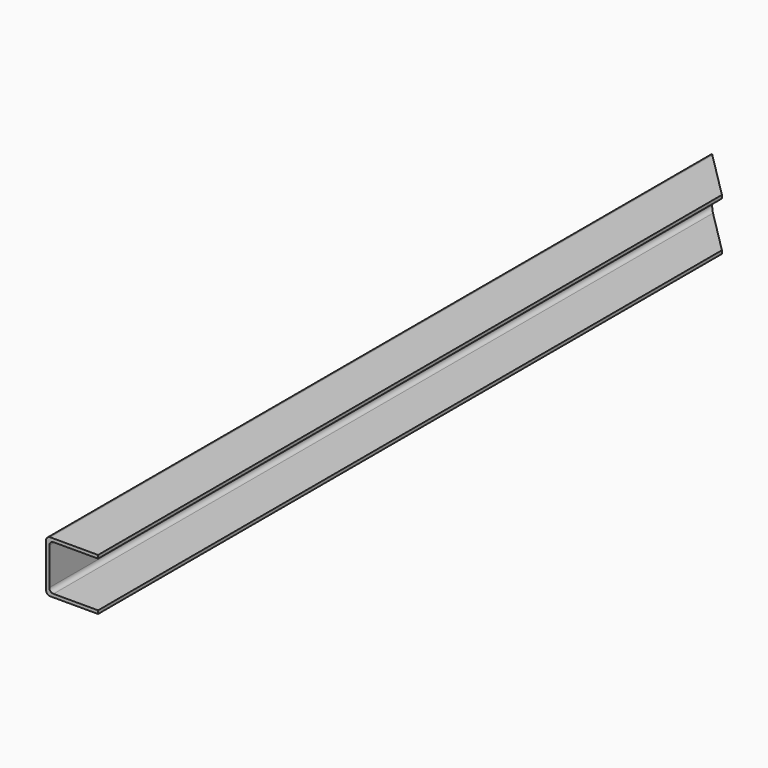
from build123d import *

# Parameters (mm, degrees)
F1_DEPTH = 406.4
F3_DEPTH = 38.1


with BuildPart() as f1:
    # F0 (on Front) → F1 (new body)
    with BuildSketch(Plane.XZ):
        with BuildLine():
            Line((0, 12.7), (-23.368, 12.7))
            ThreePointArc((-23.368, 12.7), (-24.8048409794, 12.1048409794), (-25.4, 10.668))
            Line((-25.4, 10.668), (-25.4, -10.668))
            ThreePointArc((-25.4, -10.668), (-24.8048409794, -12.1048409794), (-23.368, -12.7))
            Line((-23.368, -12.7), (0, -12.7))
            Line((0, -12.7), (0, -11.1125))
            Line((0, -11.1125), (-21.7805, -11.1125))
            ThreePointArc((-21.7805, -11.1125), (-23.2173409794, -10.5173409794), (-23.8125, -9.0805))
            Line((-23.8125, -9.0805), (-23.8125, 9.0805))
            ThreePointArc((-23.8125, 9.0805), (-23.2173409794, 10.5173409794), (-21.7805, 11.1125))
            Line((-21.7805, 11.1125), (0, 11.1125))
            Line((0, 11.1125), (0, 12.7))
        make_face()
    extrude(amount=F1_DEPTH)

    # F2 (on Top) → F3 (cut, symmetric)
    with BuildSketch(Plane.XY):
        Polygon((0, -25.4), (0, 0), (-25.4, 0), align=None)
    extrude(amount=F3_DEPTH, both=True, mode=Mode.SUBTRACT)


solid = f1.part
